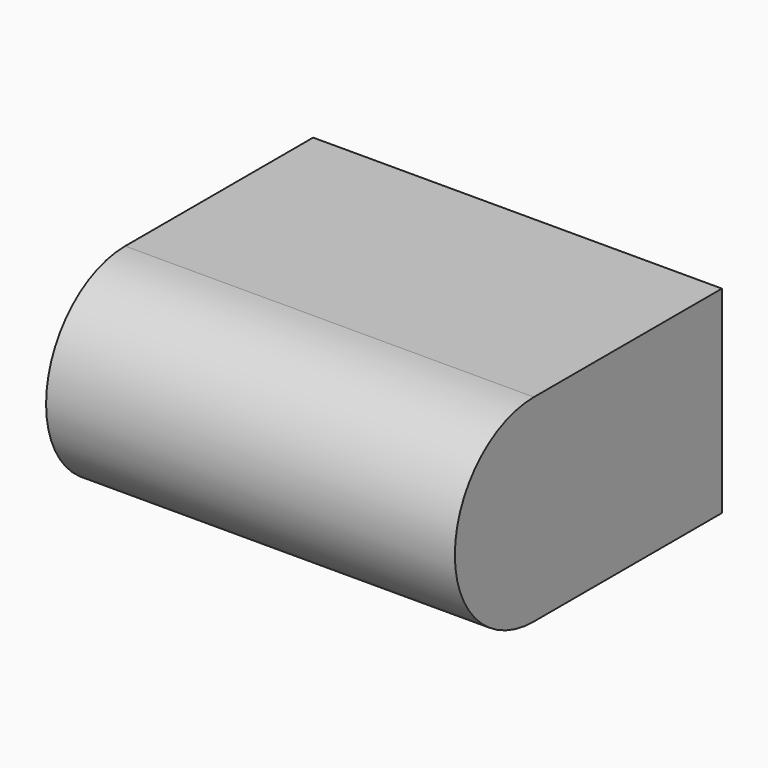
from build123d import *

# Parameters (mm, degrees)
F0_W     = 15
F0_H     = 7.25
F1_DEPTH = 8.625
F3_DEPTH = 15


with BuildPart() as f1:
    # F0 (on Front) → F1 (new body)
    with BuildSketch(Plane.XZ):
        with Locations((-62.160082, 40.224083)):
            Rectangle(F0_W, F0_H)
    extrude(amount=F1_DEPTH)

    # F2 (on face) → F3 (join)
    with BuildSketch(Plane.YZ.offset(-54.660082)):
        with BuildLine():
            Line((-8.625, 36.599083), (-8.625, 43.849083))
            ThreePointArc((-8.625, 43.849083), (-12.25, 40.224083), (-8.625, 36.599083))
        make_face()
    extrude(amount=-F3_DEPTH)


solid = f1.part
